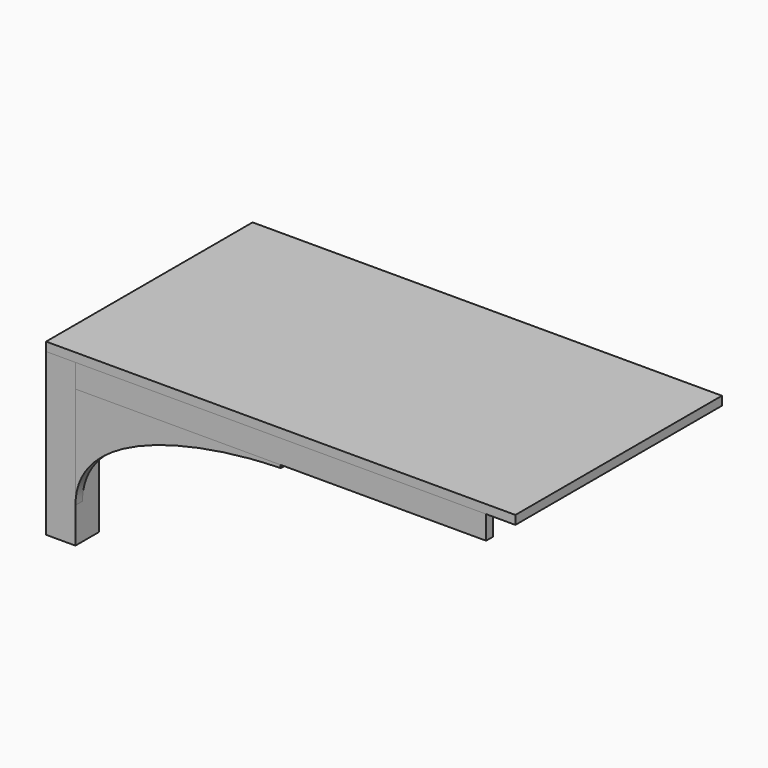
from build123d import *

# Parameters (mm, degrees)
F1_W      = 1016
F1_H      = 558.8
F2_DEPTH  = 19.05
F3_W      = 63.5
F3_H      = 63.5
F4_DEPTH  = 349.25
F5_W      = 19.05
F5_H      = 50.8
F6_DEPTH  = 444.5
F8_W      = 19.05
F8_H      = 50.8
F9_DEPTH  = 215.9
F12_DEPTH = 19.05
F14_DEPTH = 19.05


with BuildPart() as f2:
    # F1 (on offset) → F2 (new body)
    with BuildSketch(Plane.XY.offset(368.3)):
        Rectangle(F1_W, F1_H)
    extrude(amount=-F2_DEPTH)


with BuildPart() as f4:
    # F3 (on face) → F4 (new body, through all)
    with BuildSketch(Plane(origin=(0, 0, 349.25), x_dir=(1, 0, 0), z_dir=(0, 0, -1))):
        with Locations((-476.25, 247.65)):
            Rectangle(F3_W, F3_H)
    extrude(amount=F4_DEPTH)


with BuildPart() as f6:
    # F5 (on Right) → F6 (new body, through all)
    with BuildSketch(Plane.YZ):
        with Locations((-269.875, 323.85)):
            Rectangle(F5_W, F5_H)
    extrude(amount=-F6_DEPTH)

    # F7: F6 across face


with BuildPart() as f6_1:
    add(f6.part)
    add(f6.part.mirror(Plane(origin=(0, -269.875, 323.85), x_dir=(0, 1, 0), z_dir=(1, 0, 0))))


with BuildPart() as f9:
    # F8 (on Front) → F9 (new body, through all)
    with BuildSketch(Plane.XZ):
        with Locations((-498.475, 323.85)):
            Rectangle(F8_W, F8_H)
    extrude(amount=F9_DEPTH)

    # F10: F9 across face


with BuildPart() as f9_1:
    add(f9.part)
    add(f9.part.mirror(Plane(origin=(-498.475, 0, 323.85), x_dir=(1, 0, 0), z_dir=(0, 1, 0))))


with BuildPart() as f12:
    # F11 (on face) → F12 (new body)
    with BuildSketch(Plane(origin=(-508, 0, 0), x_dir=(0, -1, 0), z_dir=(-1, 0, 0))):
        with BuildLine():
            ThreePointArc((33.0799778456, 270.1558769488), (62.8732727069, 281.9585449249), (80.5087788616, 255.2016334305))
            ThreePointArc((80.5087788616, 255.2016334305), (112.3416470737, 258.8910631212), (122.4510396453, 228.4814664142))
            ThreePointArc((122.4510396453, 228.4814664142), (154.1541238457, 223.8062292832), (156.0484644371, 191.8163111249))
            add(Edge.make_bspline(
                [(156.0484644371, 191.8163111249), (167.7488357967, 194.0958318488), (196.3995793658, 180.5637728836), (174.725267388, 100.2722267968), (208.613150374, 107.6504246008), (215.9, 76.9283920527)],
                knots=[0, 0, 0, 0, 0.2801682219, 0.661986872, 1, 1, 1, 1], degree=3))
            Line((215.9, 76.9283920527), (215.9, 298.45))
            Line((215.9, 298.45), (0, 298.45))
            Line((0, 298.45), (0, 292.0640114744))
            add(Edge.make_bspline(
                [(0, 292.0640114744), (6.454422463, 284.7026517546), (12.9921563713, 286.1066684098), (31.2538918898, 279.8478218411), (33.0799778456, 270.1558769488)],
                knots=[0, 0, 0, 0, 0.4609722548, 1, 1, 1, 1], degree=3))
        make_face()
    extrude(amount=-F12_DEPTH)


with BuildPart() as f14:
    # F13 (on face) → F14 (new body)
    with BuildSketch(Plane.XZ.offset(279.4)):
        with BuildLine():
            Line((-444.5, 298.45), (-444.5, 76.9366))
            add(Edge.make_bspline(
                [(-444.5, 76.9366), (-444.5, 239.3636506188), (-157.3917120695, 289.9159283825), (0, 292.0746)],
                knots=[0, 0, 0, 0, 493.8264969035, 493.8264969035, 493.8264969035, 493.8264969035], degree=3))
            Line((0, 292.0746), (0, 298.45))
            Line((0, 298.45), (-444.5, 298.45))
        make_face()
    extrude(amount=-F14_DEPTH)


solid = Compound([f2.part, f4.part, f6_1.part, f9_1.part, f12.part, f14.part])
